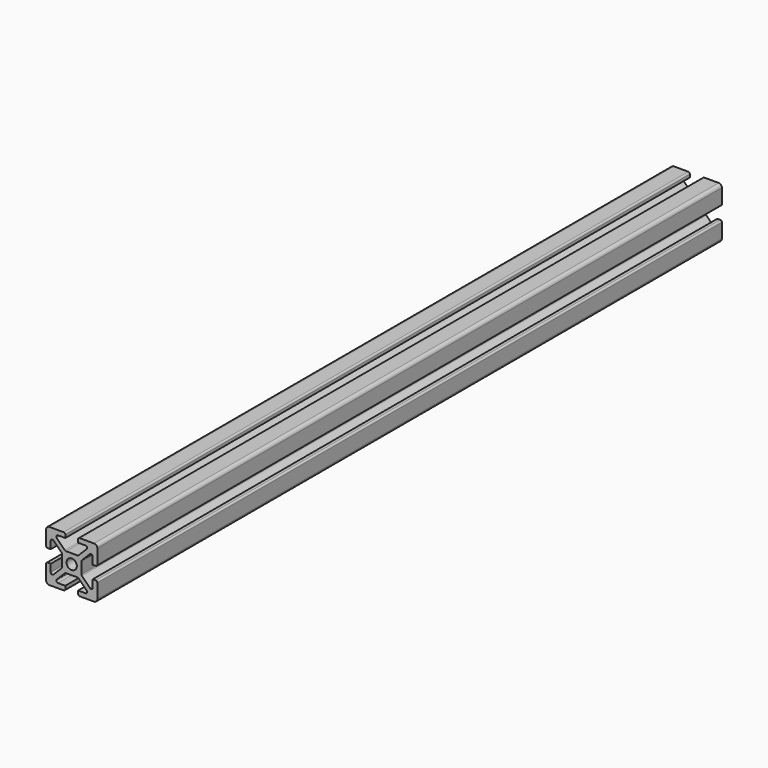
from build123d import *

# Parameters (mm, degrees)
F0_R     = 2
F1_DEPTH = 304.8


with BuildPart() as f1:
    # F0 (on Front) → F1 (new body)
    with BuildSketch(Plane.XZ):
        with BuildLine():
            Line((-13.135, 20), (-18.73, 20))
            ThreePointArc((-18.73, 20), (-19.628026, 19.628026), (-20, 18.73))
            Line((-20, 18.73), (-20, 13.135))
            ThreePointArc((-20, 13.135), (-19.814013, 12.685987), (-19.365, 12.5))
            Line((-19.365, 12.5), (-18.2, 12.5))
            Line((-18.2, 12.5), (-18.2, 15.394182))
            ThreePointArc((-18.2, 15.394182), (-17.808004, 15.980846), (-17.115987, 15.843195))
            Line((-17.115987, 15.843195), (-13.958779, 12.685987))
            ThreePointArc((-13.958779, 12.685987), (-13.821129, 12.479978), (-13.772792, 12.236974))
            Line((-13.772792, 12.236974), (-13.772792, 10))
            Line((-13.772792, 10), (-13.772792, 7.5))
            Line((-13.772792, 7.5), (-17.115987, 4.156805))
            ThreePointArc((-17.115987, 4.156805), (-17.808004, 4.019154), (-18.2, 4.605818))
            Line((-18.2, 4.605818), (-18.2, 7.5))
            Line((-18.2, 7.5), (-19.365, 7.5))
            ThreePointArc((-19.365, 7.5), (-19.814013, 7.314013), (-20, 6.865))
            Line((-20, 6.865), (-20, 1.27))
            ThreePointArc((-20, 1.27), (-19.628026, 0.371974), (-18.73, 0))
            Line((-18.73, 0), (-13.135, 0))
            ThreePointArc((-13.135, 0), (-12.685987, 0.185987), (-12.5, 0.635))
            Line((-12.5, 0.635), (-12.5, 1.8))
            Line((-12.5, 1.8), (-15.394182, 1.8))
            ThreePointArc((-15.394182, 1.8), (-15.980846, 2.191996), (-15.843195, 2.884013))
            Line((-15.843195, 2.884013), (-12.685987, 6.041221))
            ThreePointArc((-12.685987, 6.041221), (-12.479978, 6.178871), (-12.236974, 6.227208))
            Line((-12.236974, 6.227208), (-10, 6.227208))
            Line((-10, 6.227208), (-7.5, 6.227208))
            Line((-7.5, 6.227208), (-4.156805, 2.884013))
            ThreePointArc((-4.156805, 2.884013), (-4.019154, 2.191996), (-4.605818, 1.8))
            Line((-4.605818, 1.8), (-7.5, 1.8))
            Line((-7.5, 1.8), (-7.5, 0.635))
            ThreePointArc((-7.5, 0.635), (-7.314013, 0.185987), (-6.865, 0))
            Line((-6.865, 0), (-1.27, 0))
            ThreePointArc((-1.27, 0), (-0.371974, 0.371974), (0, 1.27))
            Line((0, 1.27), (0, 6.865))
            ThreePointArc((0, 6.865), (-0.185987, 7.314013), (-0.635, 7.5))
            Line((-0.635, 7.5), (-1.8, 7.5))
            Line((-1.8, 7.5), (-1.8, 4.605818))
            ThreePointArc((-1.8, 4.605818), (-2.191996, 4.019154), (-2.884013, 4.156805))
            Line((-2.884013, 4.156805), (-6.041221, 7.314013))
            ThreePointArc((-6.041221, 7.314013), (-6.178871, 7.520022), (-6.227208, 7.763026))
            Line((-6.227208, 7.763026), (-6.227208, 10))
            Line((-6.227208, 10), (-6.227208, 12.236974))
            ThreePointArc((-6.227208, 12.236974), (-6.178871, 12.479978), (-6.041221, 12.685987))
            Line((-6.041221, 12.685987), (-2.884013, 15.843195))
            ThreePointArc((-2.884013, 15.843195), (-2.191996, 15.980846), (-1.8, 15.394182))
            Line((-1.8, 15.394182), (-1.8, 12.5))
            Line((-1.8, 12.5), (-0.635, 12.5))
            ThreePointArc((-0.635, 12.5), (-0.185987, 12.685987), (0, 13.135))
            Line((0, 13.135), (0, 18.73))
            ThreePointArc((0, 18.73), (-0.371974, 19.628026), (-1.27, 20))
            Line((-1.27, 20), (-6.865, 20))
            ThreePointArc((-6.865, 20), (-7.314013, 19.814013), (-7.5, 19.365))
            Line((-7.5, 19.365), (-7.5, 18.2))
            Line((-7.5, 18.2), (-4.605818, 18.2))
            ThreePointArc((-4.605818, 18.2), (-4.019154, 17.808004), (-4.156805, 17.115987))
            Line((-4.156805, 17.115987), (-7.314013, 13.958779))
            ThreePointArc((-7.314013, 13.958779), (-7.520022, 13.821129), (-7.763026, 13.772792))
            Line((-7.763026, 13.772792), (-10, 13.772792))
            Line((-10, 13.772792), (-12.236974, 13.772792))
            ThreePointArc((-12.236974, 13.772792), (-12.479978, 13.821129), (-12.685987, 13.958779))
            Line((-12.685987, 13.958779), (-15.843195, 17.115987))
            ThreePointArc((-15.843195, 17.115987), (-15.980846, 17.808004), (-15.394182, 18.2))
            Line((-15.394182, 18.2), (-12.5, 18.2))
            Line((-12.5, 18.2), (-12.5, 19.365))
            ThreePointArc((-12.5, 19.365), (-12.685987, 19.814013), (-13.135, 20))
        make_face()
        with Locations((-10, 10)):
            Circle(F0_R, mode=Mode.SUBTRACT)
    extrude(amount=F1_DEPTH)


solid = f1.part
